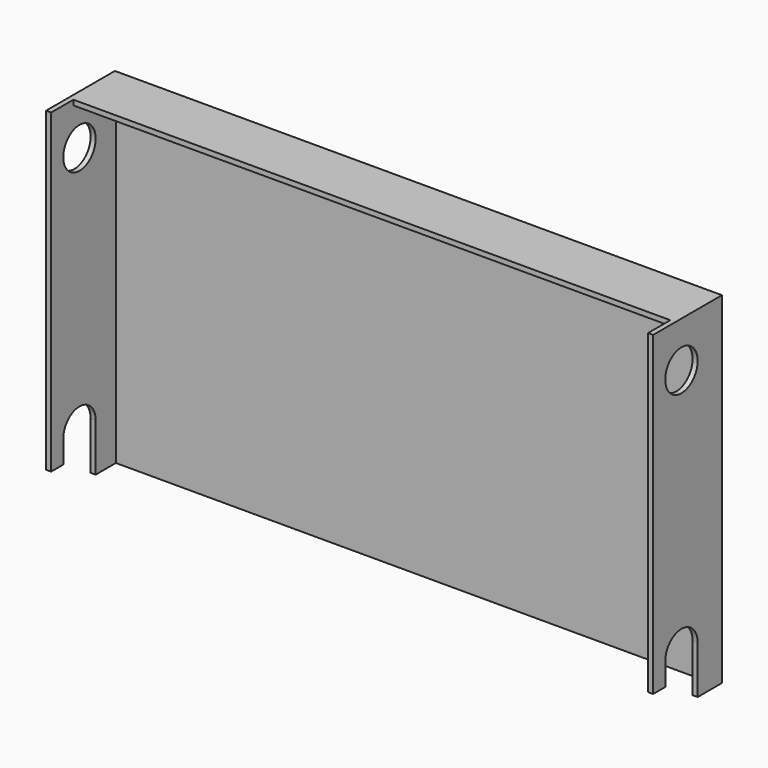
from build123d import *

# Parameters (mm, degrees)
F0_W     = 304.8
F0_H     = 171.45
F1_DEPTH = 1.27
F2_W     = 304.8
F2_H     = 2.54
F3_DEPTH = 26.67
F4_W     = 2.54
F4_H     = 171.45
F5_DEPTH = 40.64
F6_R     = 10.16
F7_DEPTH = 304.801


with BuildPart() as f1:
    # F0 (on Front) → F1 (new body, symmetric)
    with BuildSketch(Plane.XZ):
        Rectangle(F0_W, F0_H)
    extrude(amount=F1_DEPTH, both=True)

    # F2 (on face) → F3 (join)
    with BuildSketch(Plane.XZ.offset(1.27)):
        with Locations((0, 84.455)):
            Rectangle(F2_W, F2_H)
    extrude(amount=F3_DEPTH)

    # F4 (on face) → F5 (join)
    with BuildSketch(Plane.XZ.offset(1.27)):
        with Locations((-151.13, 0)):
            Rectangle(F4_W, F4_H)
        with Locations((151.13, 0)):
            Rectangle(F4_W, F4_H)
    extrude(amount=F5_DEPTH)

    # F6 (on face) → F7 (cut, through all)
    with BuildSketch(Plane.YZ.offset(152.4)):
        with Locations((-24.13, 62.865)):
            Circle(F6_R)
        with BuildLine():
            Line((-34.29, -73.025), (-41.91, -73.025))
            Line((-41.91, -73.025), (-41.91, -85.725))
            Line((-41.91, -85.725), (-13.97, -85.725))
            Line((-13.97, -85.725), (-13.97, -61.595))
            ThreePointArc((-13.97, -61.595), (-24.13, -51.435), (-34.29, -61.595))
            Line((-34.29, -61.595), (-34.29, -73.025))
        make_face()
    extrude(amount=-F7_DEPTH, mode=Mode.SUBTRACT)


solid = f1.part
